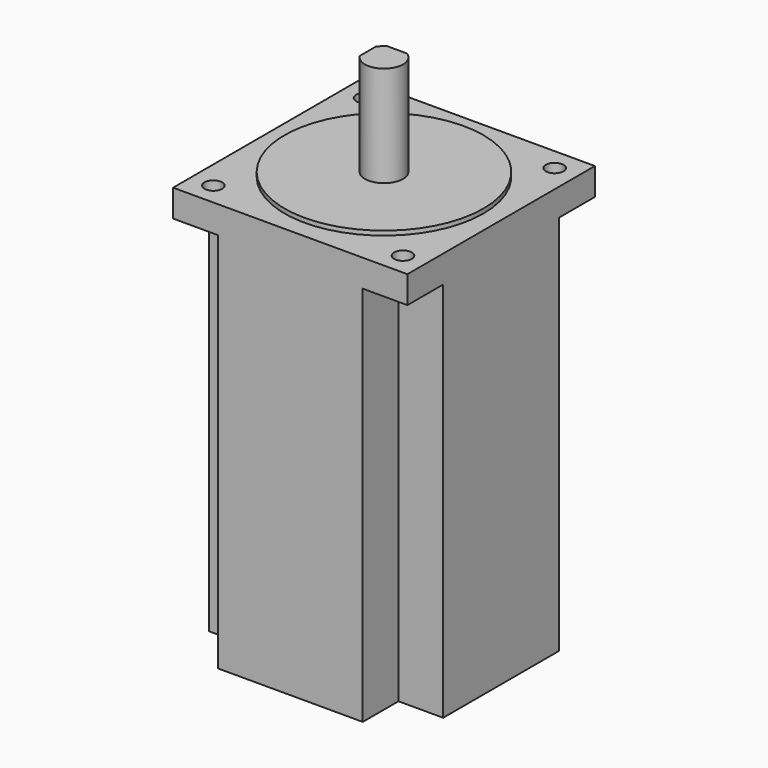
from build123d import *

# Parameters (mm, degrees)
F0_W      = 86
F0_H      = 86
F1_DEPTH  = 150
F3_D      = 6.5
F4_R      = 36.5
F5_DEPTH  = 1.6
F7_DEPTH  = 12
F9_DEPTH  = 25
F10_W     = 16.4
F10_H     = 16.4
F10_R     = 3.25
F11_DEPTH = 140


with BuildPart() as f1:
    # F0 (on Top) → F1 (new body)
    with BuildSketch(Plane.XY):
        Rectangle(F0_W, F0_H)
    extrude(amount=F1_DEPTH)

    # F3 (through all)
    with Locations(Plane.XY.offset(150)):
        with Locations((-34.8, 34.8), (34.8, 34.8), (34.8, -34.8), (-34.8, -34.8)):
            Hole(F3_D / 2)

    # F4 (on face) → F5 (join)
    with BuildSketch(Plane.XY.offset(150)):
        Circle(F4_R)
    extrude(amount=F5_DEPTH)

    # F6 (on face) → F7 (join)
    with BuildSketch(Plane.XY.offset(151.6)):
        with BuildLine():
            Line((0, 6), (3.6055512755, 6))
            ThreePointArc((3.6055512755, 6), (0, 7), (-3.6055512755, 6))
            Line((-3.6055512755, 6), (0, 6))
        make_face()
        with BuildLine():
            ThreePointArc((-6, 3.6055512755), (-7, 0), (-6, -3.6055512755))
            Line((-6, -3.6055512755), (-6, 0))
            Line((-6, 0), (-6, 3.6055512755))
        make_face()
        with BuildLine():
            Line((0, 0), (0, -7))
            ThreePointArc((0, -7), (4.9497474683, -4.9497474683), (7, 0))
            Line((7, 0), (0, 0))
        make_face()
        with BuildLine():
            Line((0, 0), (7, 0))
            ThreePointArc((7, 0), (6.0925716626, 3.4468203516), (3.6055512755, 6))
            Line((3.6055512755, 6), (0, 6))
            Line((0, 6), (0, 0))
        make_face()
        with BuildLine():
            ThreePointArc((-6, -3.6055512755), (-3.4468203516, -6.0925716626), (0, -7))
            Line((0, -7), (0, 0))
            Line((0, 0), (-6, 0))
            Line((-6, 0), (-6, -3.6055512755))
        make_face()
        with BuildLine():
            Line((-6, 0), (0, 0))
            Line((0, 0), (0, 6))
            Line((0, 6), (-3.6055512755, 6))
            ThreePointArc((-3.6055512755, 6), (-4.9497474683, 4.9497474683), (-6, 3.6055512755))
            Line((-6, 3.6055512755), (-6, 0))
        make_face()
    extrude(amount=F7_DEPTH)

    # F8 (on face) → F9 (join)
    with BuildSketch(Plane.XY.offset(163.6)):
        with BuildLine():
            ThreePointArc((0, -7), (4.9497474683, -4.9497474683), (7, 0))
            Line((7, 0), (0, 0))
            Line((0, 0), (0, -7))
        make_face()
        with BuildLine():
            Line((0, 0), (7, 0))
            ThreePointArc((7, 0), (6.0925716626, 3.4468203516), (3.6055512755, 6))
            Line((3.6055512755, 6), (0, 6))
            Line((0, 6), (0, 0))
        make_face()
        with BuildLine():
            ThreePointArc((-6, -3.6055512755), (-3.4468203516, -6.0925716626), (0, -7))
            Line((0, -7), (0, 0))
            Line((0, 0), (-6, 0))
            Line((-6, 0), (-6, -3.6055512755))
        make_face()
        with BuildLine():
            Line((-6, 0), (0, 0))
            Line((0, 0), (0, 6))
            Line((0, 6), (-3.6055512755, 6))
            ThreePointArc((-3.6055512755, 6), (-4.9497474683, 4.9497474683), (-6, 3.6055512755))
            Line((-6, 3.6055512755), (-6, 0))
        make_face()
    extrude(amount=F9_DEPTH)

    # F10 (on face) → F11 (cut)
    with BuildSketch(Plane(origin=(0, 0, 0), x_dir=(1, 0, 0), z_dir=(0, 0, -1))):
        with Locations((-34.8, 34.8)):
            Rectangle(F10_W, F10_H)
        with Locations((-34.8, 34.8)):
            Circle(F10_R, mode=Mode.SUBTRACT)
        with Locations((34.8, 34.8)):
            Rectangle(F10_W, F10_H)
        with Locations((34.8, 34.8)):
            Circle(F10_R, mode=Mode.SUBTRACT)
        with Locations((34.8, -34.8)):
            Rectangle(F10_W, F10_H)
        with Locations((34.8, -34.8)):
            Circle(F10_R, mode=Mode.SUBTRACT)
        with Locations((-34.8, -34.8)):
            Rectangle(F10_W, F10_H)
        with Locations((-34.8, -34.8)):
            Circle(F10_R, mode=Mode.SUBTRACT)
    extrude(amount=-F11_DEPTH, mode=Mode.SUBTRACT)


solid = f1.part
